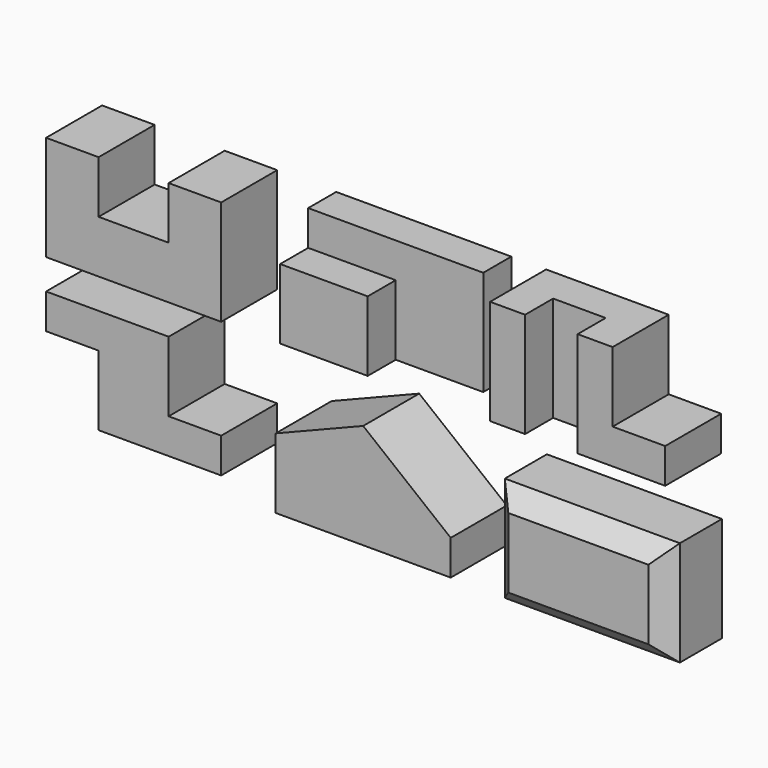
from build123d import *

# Parameters (mm, degrees)
F1_DEPTH  = 101.6
F2_W      = 254
F2_H      = 152.4
F3_DEPTH  = 101.6
F5_DEPTH  = 50.8
F7_DEPTH  = 101.6
F8_W      = 76.2
F8_H      = 50.8
F9_DEPTH  = 152.4
F11_DEPTH = 101.6
F13_DEPTH = 101.6
F15_DEPTH = 101.6
F17_DEPTH = 101.6
F18_W     = 254
F18_H     = 152.4
F19_DEPTH = 101.6
F21_DEPTH = 254
F23_DEPTH = 254
F24_DEPTH = 508
F25_SIZE  = 25.4
F26_SIZE  = 25.4


with BuildPart() as f1:
    # F0 (on Front) → F1 (new body)
    with BuildSketch(Plane.XZ):
        Polygon((0, 152.4), (0, 0), (254, 0), (254, 152.4), (177.8, 152.4), (177.8, 76.2), (76.2, 76.2), (76.2, 152.4), align=None)
    extrude(amount=-F1_DEPTH)


with BuildPart() as f3:
    # F2 (on Front) → F3 (new body)
    with BuildSketch(Plane.XZ):
        with Locations((466.5595419312, 76.2)):
            Rectangle(F2_W, F2_H)
    extrude(amount=-F3_DEPTH)

    # F4 (on face) → F5 (cut)
    with BuildSketch(Plane.XZ):
        Polygon((339.5595419312, 152.4), (339.5595419312, 101.6), (466.5595419312, 101.6), (466.5595419312, 0), (593.5595419312, 0), (593.5595419312, 152.4), align=None)
    extrude(amount=-F5_DEPTH, mode=Mode.SUBTRACT)


with BuildPart() as f7:
    # F6 (on Front) → F7 (new body)
    with BuildSketch(Plane.XZ):
        Polygon((644.0749381992, 152.4), (644.0749381992, 0), (898.0749381992, 0), (898.0749381992, 50.8), (821.8749381992, 50.8), (821.8749381992, 152.4), align=None)
    extrude(amount=-F7_DEPTH)

    # F8 (on face) → F9 (cut)
    with BuildSketch(Plane.XY.offset(152.4)):
        with Locations((732.9749381992, 25.4)):
            Rectangle(F8_W, F8_H)
    extrude(amount=-F9_DEPTH, mode=Mode.SUBTRACT)


with BuildPart() as f11:
    # F10 (on Front) → F11 (new body)
    with BuildSketch(Plane.XZ):
        Polygon((177.8, -43.8514465817), (0, -43.8514465817), (0, -94.6514465817), (76.2, -94.6514465817), (76.2, -196.2514465817), (254, -196.2514465817), (254, -145.4514465817), (177.8, -145.4514465817), align=None)
    extrude(amount=-F11_DEPTH)


with BuildPart() as f13:
    # F12 (on Front) → F13 (new body)
    with BuildSketch(Plane.XZ):
        Polygon((459.9786102772, -66.0025836769), (332.9786102772, -66.0025836769), (332.9786102772, -116.8025836769), align=None)
        Polygon((586.9786102772, -66.0025836769), (459.9786102772, -66.0025836769), (586.9786102772, -167.6025836769), align=None)
        Polygon((586.9786102772, -167.6025836769), (459.9786102772, -66.0025836769), (332.9786102772, -116.8025836769), (332.9786102772, -218.4025836769), (586.9786102772, -218.4025836769), align=None)
    extrude(amount=-F13_DEPTH)

    # F14 (on face) → F15 (cut)
    with BuildSketch(Plane.XZ):
        Polygon((332.9786102772, -66.0025836769), (332.9786102772, -116.8025836769), (459.9786102772, -66.0025836769), align=None)
    extrude(amount=-F15_DEPTH, mode=Mode.SUBTRACT)

    # F16 (on face) → F17 (cut)
    with BuildSketch(Plane.XZ):
        Polygon((459.9786102772, -66.0025836769), (586.9786102772, -167.6025836769), (586.9786102772, -66.0025836769), align=None)
    extrude(amount=-F17_DEPTH, mode=Mode.SUBTRACT)


with BuildPart() as f19:
    # F18 (on Front) → F19 (new body)
    with BuildSketch(Plane.XZ):
        with Locations((772.1001505852, -159.5083741897)):
            Rectangle(F18_W, F18_H)
    extrude(amount=-F19_DEPTH)

    # F20 (on face) → F21 (cut)
    with BuildSketch(Plane.YZ.offset(899.1001505852)):
        Polygon((25.4, -235.7083741897), (0, -210.3083741897), (0, -235.7083741897), align=None)
    extrude(amount=-F21_DEPTH, mode=Mode.SUBTRACT)

    # F22 (on face) → F23 (join)
    with BuildSketch(Plane.YZ.offset(899.1001505852)):
        Polygon((0, -108.7083741897), (25.4, -83.3083741897), (0, -83.3083741897), align=None)
    extrude(amount=F23_DEPTH)

    # F24 (cut): a face of the model
    f24_faces = [f19.faces().sort_by_distance(p)[0] for p in [
        (1153.1001505852, 8.4666666667, -91.7750408563),
    ]]
    extrude(f24_faces, amount=-F24_DEPTH, mode=Mode.SUBTRACT)

    # F25
    f25_edges = [f19.edges().sort_by_distance(p)[0] for p in [
        (899.100151, 0, -159.508374),
    ]]
    chamfer(f25_edges, length=F25_SIZE)

    # F26
    f26_edges = [f19.edges().sort_by_distance(p)[0] for p in [
        (645.100151, 0, -159.508374),
    ]]
    chamfer(f26_edges, length=F26_SIZE)


solid = Compound([f1.part, f3.part, f7.part, f11.part, f13.part, f19.part])
